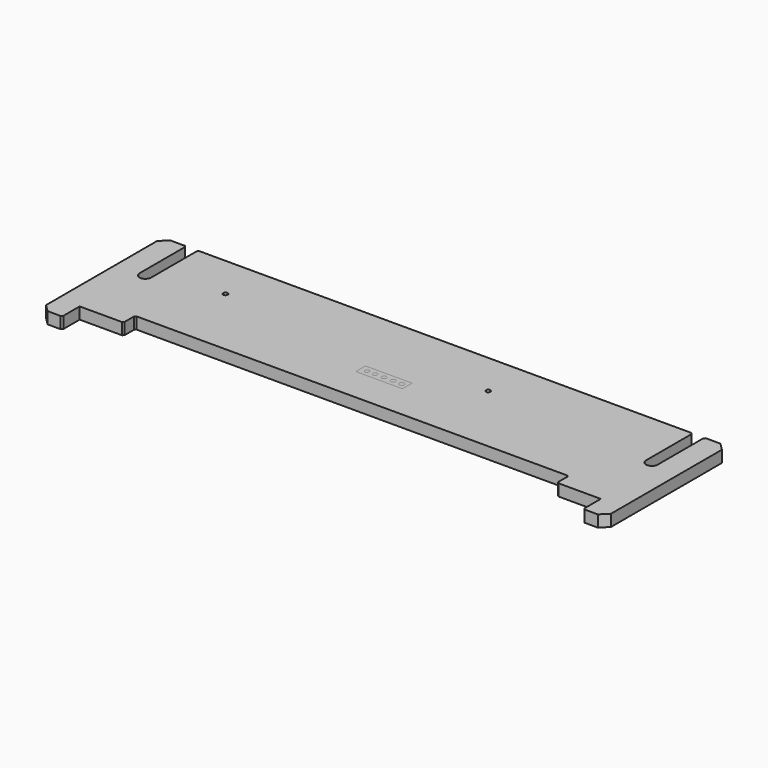
from build123d import *

# Parameters (mm, degrees)
F0_R     = 1.55
F1_DEPTH = 8
F2_SIZE  = 5
F3_W     = 31.912242
F3_H     = 8.279254
F3_R     = 1.5
F3_R_2   = 1.55
F3_R_3   = 1.6
F3_R_4   = 1.65
F3_R_5   = 1.7
F4_DEPTH = 8
F5_SIZE  = 1


with BuildPart() as f1:
    # F0 (on Top) → F1 (new body)
    with BuildSketch(Plane.XY):
        with BuildLine():
            Line((193.5, -52.5), (193.5, 52.5))
            Line((193.5, 52.5), (177.5, 52.5))
            Line((177.5, 52.5), (177.5, 12.5))
            ThreePointArc((177.5, 12.5), (173.5, 8.5), (169.5, 12.5))
            Line((169.5, 12.5), (169.5, 52.5))
            Line((169.5, 52.5), (-169.5, 52.5))
            Line((-169.5, 52.5), (-169.5, 12.5))
            ThreePointArc((-169.5, 12.5), (-173.5, 8.5), (-177.5, 12.5))
            Line((-177.5, 12.5), (-177.5, 52.5))
            Line((-177.5, 52.5), (-193.5, 52.5))
            Line((-193.5, 52.5), (-193.5, -52.5))
            Line((-193.5, -52.5), (-178.5, -52.5))
            Line((-178.5, -52.5), (-178.5, -37.5))
            Line((-178.5, -37.5), (-148.5, -37.5))
            Line((-148.5, -37.5), (-148.5, -27.5))
            Line((-148.5, -27.5), (148.5, -27.5))
            Line((148.5, -27.5), (148.5, -37.5))
            Line((148.5, -37.5), (178.5, -37.5))
            Line((178.5, -37.5), (178.5, -52.5))
            Line((178.5, -52.5), (193.5, -52.5))
        make_face()
        with Locations((-126.611084, 22.5)):
            Circle(F0_R, mode=Mode.SUBTRACT)
        with Locations((53.388916, 22.5)):
            Circle(F0_R, mode=Mode.SUBTRACT)
    extrude(amount=F1_DEPTH)

    # F2
    f2_edges = [f1.edges().sort_by_distance(p)[0] for p in [
        (-193.5, 52.5, 4),
        (-193.5, -52.5, 4),
        (193.5, -52.5, 4),
        (193.5, 52.5, 4),
    ]]
    chamfer(f2_edges, length=F2_SIZE)

    # F5
    f5_edges = [f1.edges().sort_by_distance(p)[0] for p in [
        (-178.5, -52.5, 4),
        (178.5, -52.5, 4),
        (177.5, 52.5, 4),
        (169.5, 52.5, 4),
        (-177.5, 52.5, 4),
        (-169.5, 52.5, 4),
        (-148.5, -27.5, 4),
        (148.5, -27.5, 4),
        (148.5, -37.5, 4),
        (-148.5, -37.5, 4),
    ]]
    chamfer(f5_edges, length=F5_SIZE)


with BuildPart() as f4:
    # F3 (on Top) → F4 (new body)
    with BuildSketch(Plane.XY):
        Rectangle(F3_W, F3_H)
        with Locations((-11.531136, 0)):
            Circle(F3_R, mode=Mode.SUBTRACT)
        with Locations((-6.096364, 0)):
            Circle(F3_R_2, mode=Mode.SUBTRACT)
        Circle(F3_R_3, mode=Mode.SUBTRACT)
        with Locations((6.37244, 0)):
            Circle(F3_R_4, mode=Mode.SUBTRACT)
        with Locations((12.255835, 0)):
            Circle(F3_R_5, mode=Mode.SUBTRACT)
    extrude(amount=F4_DEPTH)


solid = Compound([f1.part, f4.part])
